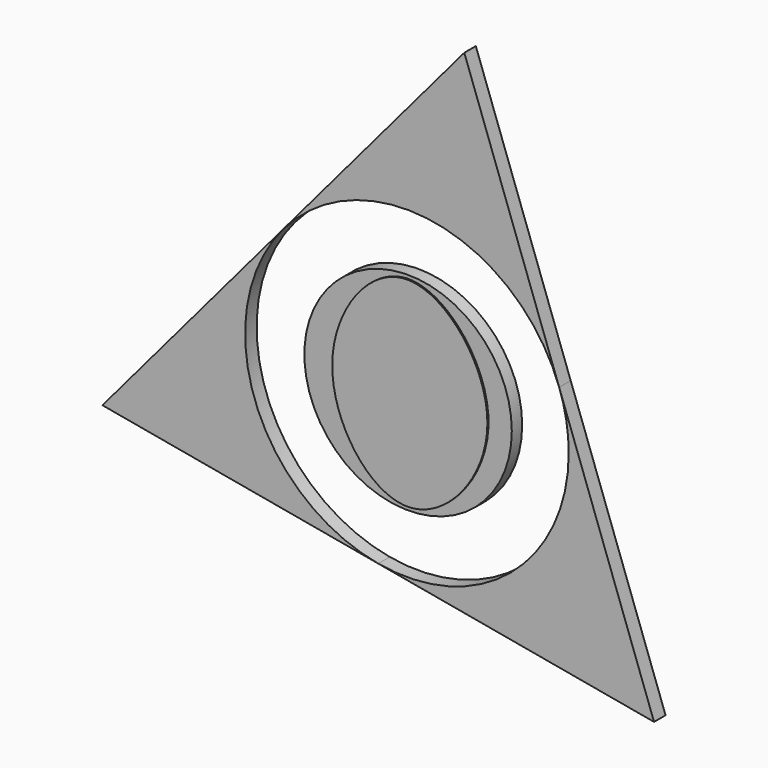
from build123d import *

# Parameters (mm, degrees)
F1_DEPTH = 3.048
F3_DEPTH = 3.048
F4_R     = 21.9430987276
F5_DEPTH = 2.7432


with BuildPart() as f1:
    # F0 (on Front) → F1 (new body)
    with BuildSketch(Plane.XZ):
        with BuildLine():
            Line((-26.1407493737, 22.100905052), (-64.4206397323, -23.1762012467))
            Line((-64.4206397323, -23.1762012467), (-6.0695717062, -33.6890053466))
            ThreePointArc((-6.0695717062, -33.6890053466), (-32.21032011, -11.5880999456), (-26.1407493737, 22.100905052))
        make_face()
    extrude(amount=F1_DEPTH)


with BuildPart() as f1b:
    # F0 (on Front) → F1, piece 2 (new body)
    with BuildSketch(Plane.XZ):
        with BuildLine():
            Line((12.1391408233, 67.3780111596), (-26.1407493737, 22.100905052))
            ThreePointArc((-26.1407493737, 22.100905052), (6.0695702668, 33.6890056059), (32.2103197241, 11.5881010182))
            Line((32.2103197241, 11.5881010182), (12.1391408233, 67.3780111596))
        make_face()
    extrude(amount=F1_DEPTH)


with BuildPart() as f1c:
    # F0 (on Front) → F1, piece 3 (new body)
    with BuildSketch(Plane.XZ):
        with BuildLine():
            ThreePointArc((34.2314005255, 0), (21.9547129547, -26.263650946), (-6.0695717062, -33.6890053466))
            Line((-6.0695717062, -33.6890053466), (52.281498909, -44.2018099129))
            Line((52.281498909, -44.2018099129), (32.2103197241, 11.5881010182))
            ThreePointArc((32.2103197241, 11.5881010182), (33.7223452437, 5.8815145331), (34.2314005255, 0))
        make_face()
    extrude(amount=F1_DEPTH)


with BuildPart() as f3:
    # F2 (on Front) → F3 (new body)
    with BuildSketch(Plane.XZ):
        with BuildLine():
            add(Edge.make_bspline(
                [(0, 21.2016310543), (-8.1505647477, 21.1034222535), (-23.4533414123, -0.024826285), (-0.3813172863, -31.5743947125), (25.7890839147, -0.0267917458), (8.2653531276, 21.3012229775), (0, 21.2016310543)],
                knots=[0, 0, 0, 0, 0.248503339, 0.49648954, 0.7479968672, 1, 1, 1, 1], degree=3))
        make_face()
    extrude(amount=F3_DEPTH)

    # F4 (on Front) → F5 (join)
    with BuildSketch(Plane.XZ):
        Circle(F4_R)
        with BuildLine():
            add(Edge.make_bspline(
                [(0, 11.7592252791), (4.1431981523, 11.6633875484), (11.3152742485, -0.1693753826), (0.381447044, -15.9165833063), (-13.657713804, -0.1974069716), (-4.2461372519, 11.8574441292), (0, 11.7592252791)],
                knots=[0, 0, 0, 0, 0.2506101519, 0.4934826116, 0.7431633578, 1, 1, 1, 1], degree=3))
        make_face(mode=Mode.SUBTRACT)
    extrude(amount=F5_DEPTH)


solid = Compound([f1.part, f1b.part, f1c.part, f3.part])
